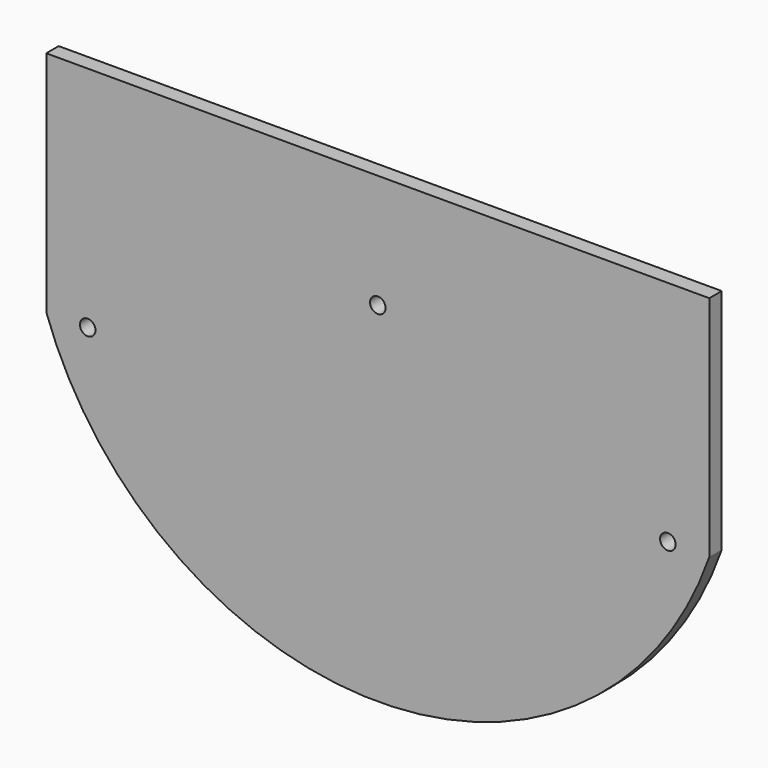
from build123d import *

# Parameters (mm, degrees)
F0_R     = 9.525
F1_DEPTH = 19.05


with BuildPart() as f1:
    # F0 (on Front) → F1 (new body)
    with BuildSketch(Plane.XZ):
        with BuildLine():
            Line((406.4, 139.7), (-406.4, 139.7))
            Line((-406.4, 139.7), (-406.4, -139.7))
            ThreePointArc((-406.4, -139.7), (0, -427.836859), (406.4, -139.7))
            Line((406.4, -139.7), (406.4, 139.7))
        make_face()
        with Locations((-355.6, -139.7)):
            Circle(F0_R, mode=Mode.SUBTRACT)
        Circle(F0_R, mode=Mode.SUBTRACT)
        with Locations((355.6, -139.7)):
            Circle(F0_R, mode=Mode.SUBTRACT)
    extrude(amount=F1_DEPTH)


solid = f1.part
